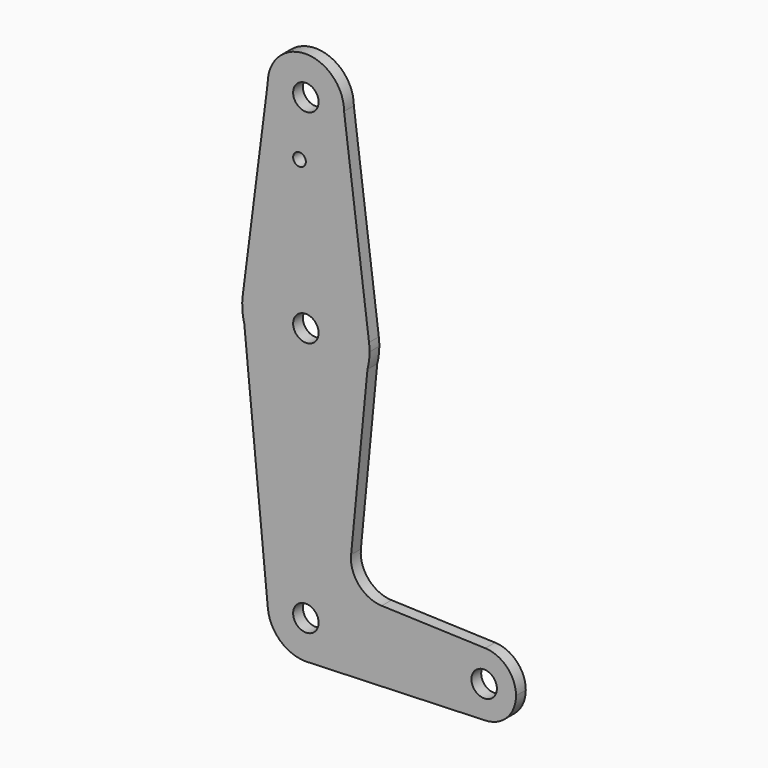
from build123d import *

# Parameters (mm, degrees)
F0_R     = 3.175
F0_R_2   = 1.5875
F1_DEPTH = 3.048


with BuildPart() as f1:
    # F0 (on Front) → F1 (new body)
    with BuildSketch(Plane.XZ):
        with BuildLine():
            ThreePointArc((-9.525, 114.3), (0, 104.775), (9.525, 114.3))
            ThreePointArc((9.525, 114.3), (0, 123.825), (-9.525, 114.3))
        make_face()
        with Locations((0, 114.3)):
            Circle(F0_R, mode=Mode.SUBTRACT)
        with BuildLine():
            Line((15.746933, 65.613566), (9.525, 114.3))
            ThreePointArc((9.525, 114.3), (0, 104.775), (-9.525, 114.3))
            Line((-9.525, 114.3), (-15.746933, 65.613566))
            ThreePointArc((-15.746933, 65.613566), (0, 79.476171), (15.746933, 65.613566))
        make_face()
        with Locations((-1.5875, 100.126371)):
            Circle(F0_R_2, mode=Mode.SUBTRACT)
        with BuildLine():
            ThreePointArc((15.875, 63.601171), (15.842951, 64.609404), (15.746933, 65.613566))
            ThreePointArc((15.746933, 65.613566), (0, 79.476171), (-15.746933, 65.613566))
            ThreePointArc((-15.746933, 65.613566), (-15.841818, 62.575289), (-15.355864, 59.574625))
            ThreePointArc((-15.355864, 59.574625), (0, 47.726171), (15.355864, 59.574625))
            ThreePointArc((15.355864, 59.574625), (15.744681, 61.571234), (15.875, 63.601171))
        make_face()
        with Locations((0, 63.601171)):
            Circle(F0_R, mode=Mode.SUBTRACT)
        with BuildLine():
            ThreePointArc((15.355864, 59.574625), (0, 47.726171), (-15.355864, 59.574625))
            Line((-15.355864, 59.574625), (-9.480392, -0.920761))
            ThreePointArc((-9.480392, -0.920761), (-0.46092, 9.513841), (9.525, 0))
            ThreePointArc((9.525, 0), (6.970557, -6.491299), (0.677344, -9.500886))
            Line((0.677344, -9.500886), (44.732405, -7.932475))
            ThreePointArc((44.732405, -7.932475), (36.5125, 0), (44.732405, 7.932475))
            Line((44.732405, 7.932475), (18.905948, 8.851926))
            ThreePointArc((18.905948, 8.851926), (13.207584, 11.559663), (11.275838, 17.565621))
            Line((11.275838, 17.565621), (15.355864, 59.574625))
        make_face()
        with BuildLine():
            ThreePointArc((9.525, 0), (-0.46092, 9.513841), (-9.480392, -0.920761))
            ThreePointArc((-9.480392, -0.920761), (-6.401382, -7.053222), (0, -9.525))
            Line((0, -9.525), (0.677344, -9.500886))
            ThreePointArc((0.677344, -9.500886), (6.970557, -6.491299), (9.525, 0))
        make_face()
        Circle(F0_R, mode=Mode.SUBTRACT)
        with BuildLine():
            Line((0.677344, -9.500886), (0, -9.525))
            ThreePointArc((0, -9.525), (0.338886, -9.51897), (0.677344, -9.500886))
        make_face()
        with BuildLine():
            ThreePointArc((52.3875, 0), (50.161633, 5.51191), (44.732405, 7.932475))
            ThreePointArc((44.732405, 7.932475), (36.5125, 0), (44.732405, -7.932475))
            ThreePointArc((44.732405, -7.932475), (50.161633, -5.51191), (52.3875, 0))
        make_face()
        with Locations((44.45, 0)):
            Circle(F0_R, mode=Mode.SUBTRACT)
    extrude(amount=F1_DEPTH)


solid = f1.part
